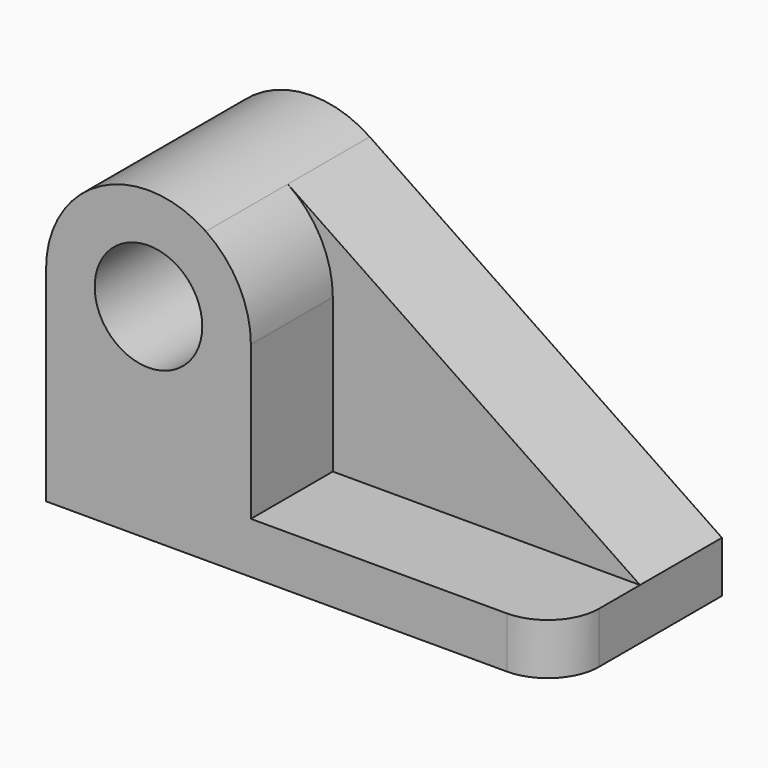
from build123d import *

# Parameters (mm, degrees)
F0_R     = 13.341741
F1_DEPTH = 25.4
F2_R     = 13.341741
F3_DEPTH = 25.4
F4_R     = 12.7


with BuildPart() as f1:
    # F0 (on Front) → F1 (new body)
    with BuildSketch(Plane.XZ):
        with BuildLine():
            Line((49.160112, -31.571778), (-38.202015, 27.56255))
            ThreePointArc((-38.202015, 27.56255), (-64.346148, 28.964821), (-77.839888, 6.528222))
            Line((-77.839888, 6.528222), (-77.839888, -44.271778))
            Line((-77.839888, -44.271778), (49.160112, -44.271778))
            Line((49.160112, -44.271778), (49.160112, -31.571778))
        make_face()
        with Locations((-52.439888, 6.528222)):
            Circle(F0_R, mode=Mode.SUBTRACT)
    extrude(amount=F1_DEPTH)

    # F2 (on face) → F3 (join)
    with BuildSketch(Plane.XZ.offset(25.4)):
        with BuildLine():
            Line((-27.039888, -31.571778), (-27.039888, 6.528222))
            ThreePointArc((-27.039888, 6.528222), (-30.003289, 18.434481), (-38.202015, 27.56255))
            ThreePointArc((-38.202015, 27.56255), (-64.346148, 28.964821), (-77.839888, 6.528222))
            Line((-77.839888, 6.528222), (-77.839888, -31.571778))
            Line((-77.839888, -31.571778), (-77.839888, -44.271778))
            Line((-77.839888, -44.271778), (49.160112, -44.271778))
            Line((49.160112, -44.271778), (49.160112, -31.571778))
            Line((49.160112, -31.571778), (-27.039888, -31.571778))
        make_face()
        with Locations((-52.439888, 6.528222)):
            Circle(F2_R, mode=Mode.SUBTRACT)
    extrude(amount=F3_DEPTH)

    # F4
    f4_edges = [f1.edges().sort_by_distance(p)[0] for p in [
        (49.160112, -50.8, -37.921778),
    ]]
    fillet(f4_edges, radius=F4_R)


solid = f1.part
